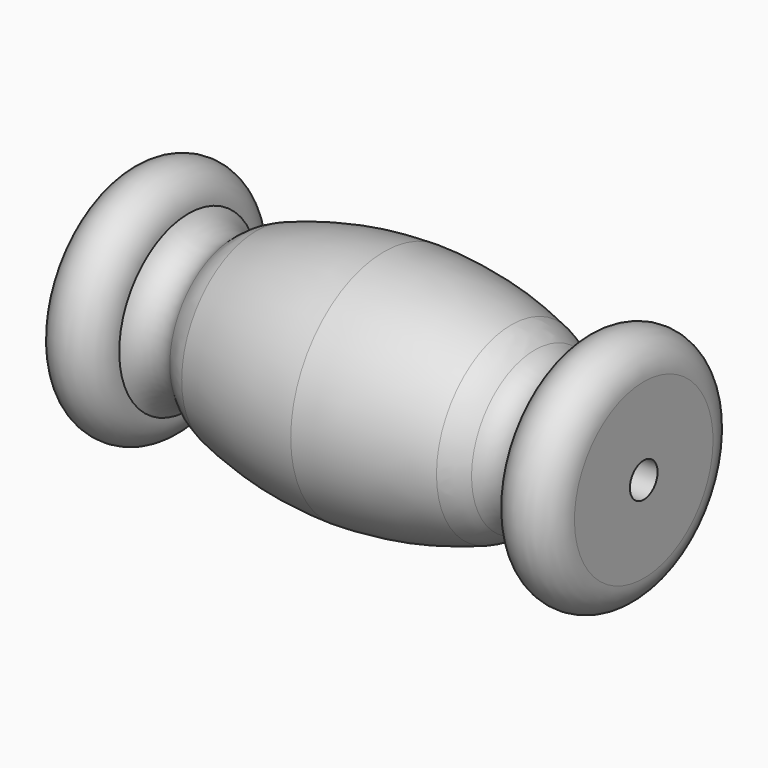
from build123d import *

# Parameters (mm, degrees)
F2_R     = 5.08
F4_R     = 1.27
F5_DEPTH = 38.101


with BuildPart() as f1:
    # F0 (on Front) → F1 (revolve)
    with BuildSketch(Plane.XZ):
        with BuildLine():
            Line((-19.05, 6.35), (-19.05, 0))
            Line((-19.05, 0), (0, 0))
            Line((0, 0), (0, 8.549875))
            ThreePointArc((0, 8.549875), (-5.434225, 7.979971), (-10.649472, 6.35))
            ThreePointArc((-10.649472, 6.35), (-12.494147, 5.241862), (-14.338822, 6.35))
            ThreePointArc((-14.338822, 6.35), (-16.694411, 8.705589), (-19.05, 6.35))
        make_face()
    revolve(axis=Axis((-9.525, 0, 0), (-1, 0, 0)))

    # F2
    f2_edges = [f1.edges().sort_by_distance(p)[0] for p in [
        (-10.649472, 0, -6.35),
    ]]
    fillet(f2_edges, radius=F2_R)

    # F3: F1 across plane


with BuildPart() as f1_1:
    add(f1.part)
    add(f1.part.mirror(Plane.YZ))

    # F4 (on face) → F5 (cut, through all)
    with BuildSketch(Plane(origin=(-19.05, 0, 0), x_dir=(0, -1, 0), z_dir=(-1, 0, 0))):
        Circle(F4_R)
    extrude(amount=-F5_DEPTH, mode=Mode.SUBTRACT)


solid = f1_1.part
